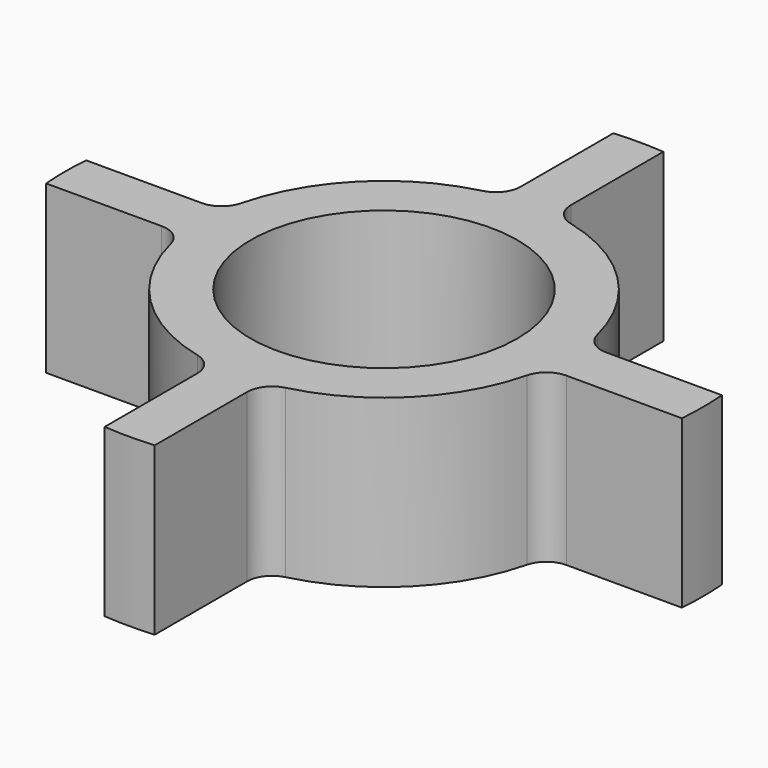
from build123d import *

# Parameters (mm, degrees)
SKETCH_R    = 16
PAD_DEPTH   = 20
FILLET_R    = 3
FILLET001_R = 3
FILLET002_R = 3
FILLET003_R = 3
FILLET004_R = 3
FILLET005_R = 3
FILLET006_R = 3
FILLET007_R = 3


with BuildPart() as part:
    # Sketch → Pad (new body)
    with BuildSketch(Plane.XY):
        with BuildLine():
            ThreePointArc((3, -21.794495), (15.556349, -15.556349), (21.794495, -3))
            Line((21.794495, -3), (38.132171, -3))
            ThreePointArc((38.132171, -3), (38.25, 0), (38.132171, 3))
            Line((38.132171, 3), (21.794495, 3))
            ThreePointArc((21.794495, 3), (15.556349, 15.556349), (3, 21.794495))
            Line((3, 21.794495), (3, 38.132171))
            ThreePointArc((3, 38.132171), (0, 38.25), (-3, 38.132171))
            Line((-3, 38.132171), (-3, 21.794495))
            ThreePointArc((-3, 21.794495), (-15.556349, 15.556349), (-21.794495, 3))
            Line((-21.794495, 3), (-38.132171, 3))
            ThreePointArc((-38.132171, 3), (-38.25, 0), (-38.132171, -3))
            Line((-38.132171, -3), (-21.794495, -3))
            ThreePointArc((-21.794495, -3), (-15.556349, -15.556349), (-3, -21.794495))
            Line((-3, -21.794495), (-3, -38.132171))
            ThreePointArc((-3, -38.132171), (0, -38.25), (3, -38.132171))
            Line((3, -38.132171), (3, -21.794495))
        make_face()
        Circle(SKETCH_R, mode=Mode.SUBTRACT)
    extrude(amount=PAD_DEPTH)

    # Fillet
    fillet_edges = [part.edges().sort_by_distance(p)[0] for p in [
        (3, -21.794495, 10),
    ]]
    fillet(fillet_edges, radius=FILLET_R)

    # Fillet001
    fillet001_edges = [part.edges().sort_by_distance(p)[0] for p in [
        (21.794495, -3, 10),
    ]]
    fillet(fillet001_edges, radius=FILLET001_R)

    # Fillet002
    fillet002_edges = [part.edges().sort_by_distance(p)[0] for p in [
        (-3, -21.794495, 10),
    ]]
    fillet(fillet002_edges, radius=FILLET002_R)

    # Fillet003
    fillet003_edges = [part.edges().sort_by_distance(p)[0] for p in [
        (-21.794495, -3, 10),
    ]]
    fillet(fillet003_edges, radius=FILLET003_R)

    # Fillet004
    fillet004_edges = [part.edges().sort_by_distance(p)[0] for p in [
        (-21.794495, 3, 10),
    ]]
    fillet(fillet004_edges, radius=FILLET004_R)

    # Fillet005
    fillet005_edges = [part.edges().sort_by_distance(p)[0] for p in [
        (-3, 21.794495, 10),
    ]]
    fillet(fillet005_edges, radius=FILLET005_R)

    # Fillet006
    fillet006_edges = [part.edges().sort_by_distance(p)[0] for p in [
        (3, 21.794495, 10),
    ]]
    fillet(fillet006_edges, radius=FILLET006_R)

    # Fillet007
    fillet007_edges = [part.edges().sort_by_distance(p)[0] for p in [
        (21.794495, 3, 10),
    ]]
    fillet(fillet007_edges, radius=FILLET007_R)


solid = part.part
